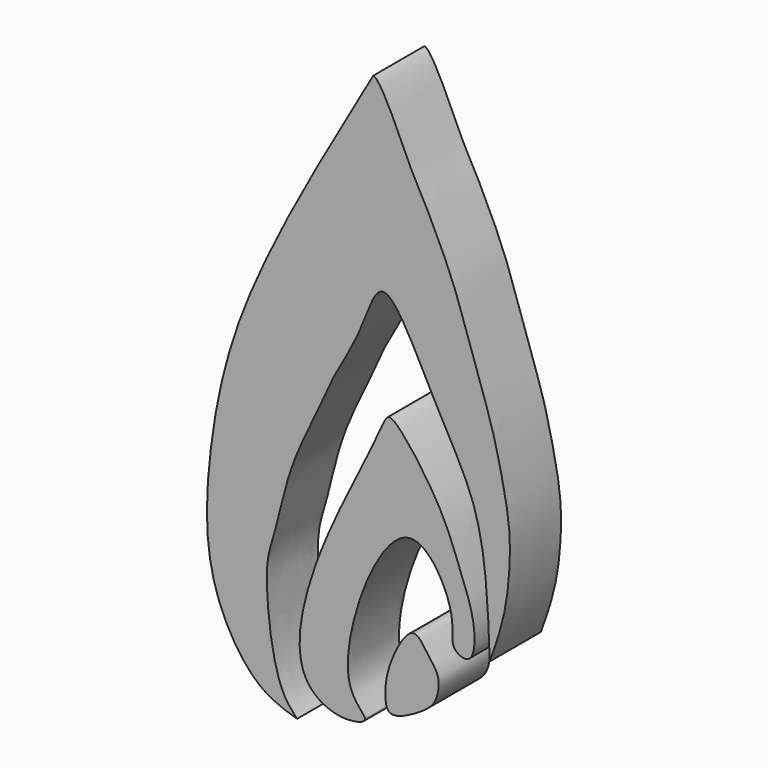
from build123d import *

# Parameters (mm, degrees)
F1_DEPTH = 5


with BuildPart() as f1:
    # F0 (on Front) → F1 (new body)
    with BuildSketch(Plane.XZ):
        with BuildLine():
            add(Edge.make_bspline(
                [(-105.4228618741, -73.764488101), (-104.9720153162, -72.4983220416), (-104.0574418421, -69.9298164366), (-103.7450795659, -65.4076443677), (-104.0495589113, -62.5091065922), (-105.1771436816, -57.5297420009), (-106.2078793726, -54.8663661927), (-107.7755364862, -49.8754492667), (-108.8688401149, -47.1841057708), (-110.6168271049, -43.5524500919), (-111.62611511, -41.9903693861), (-113.8685189613, -36.5783802892), (-114.5240738988, -36.4063158631)],
                knots=[0, 0, 0, 0, 0.097221926, 0.1972214221, 0.2811811309, 0.3867547967, 0.4713562654, 0.5783695765, 0.6638866449, 0.7549950363, 0.8316220038, 0.9471781006, 0.9471781006, 0.9471781006, 0.9471781006], degree=3))
            add(Edge.make_bspline(
                [(-114.5240738988, -36.4063158631), (-114.7269682487, -36.7572496397), (-114.9298625986, -37.1081834162), (-115.1325179437, -37.4589500701)],
                knots=[0, 0, 0, 0, 0.0156360714, 0.0156360714, 0.0156360714, 0.0156360714], degree=3))
            add(Edge.make_bspline(
                [(-115.1325179437, -37.4589500701), (-118.8278130804, -43.8549635046), (-125.1865428068, -55.0051584165), (-127.4508253004, -65.8915561631), (-127.8573967147, -75.1371395411), (-124.0045712011, -81.5315379844), (-121.5128398626, -82.2928489217), (-120.4813197255, -82.6080143452)],
                knots=[0.0156360714, 0.0156360714, 0.0156360714, 0.0156360714, 0.3007501834, 0.5170326194, 0.711433254, 0.8805399263, 1, 1, 1, 1], degree=3))
            add(Edge.make_bspline(
                [(-120.4813197255, -82.6080143452), (-120.8464813091, -82.2203384476), (-121.7028402199, -81.3111800794), (-122.4968363975, -78.2500008073), (-122.8052723026, -75.3230211512), (-122.9431829015, -72.392670907), (-122.0471866402, -69.96956257), (-121.1204364685, -65.2403090257), (-118.6954861092, -60.6496198019), (-117.6679719932, -57.9752277313), (-115.4054960497, -54.503914819), (-113.8138143648, -48.7243475864), (-109.7248872626, -57.5977885356), (-106.4442182198, -62.8254920807), (-105.6049122532, -68.5668422539), (-105.4830124507, -72.0471536129), (-105.4228618741, -73.764488101)],
                knots=[0, 0, 0, 0, 0.0463262487, 0.1086420305, 0.1709598951, 0.2303453141, 0.2868068168, 0.3651248225, 0.4459793564, 0.5056885894, 0.5810475592, 0.6474450462, 0.7410893883, 0.8358304767, 0.9189917352, 1, 1, 1, 1], degree=3))
        make_face()
    extrude(amount=F1_DEPTH)


with BuildPart() as f1b:
    # F0 (on Front) → F1, piece 2 (new body)
    with BuildSketch(Plane.XZ):
        with BuildLine():
            add(Edge.make_bspline(
                [(-115.1773631573, -80.9382647276), (-115.0862994268, -80.5906138955), (-118.3352531135, -79.0648517893), (-112.5079617621, -62.8205407027), (-107.7831889509, -71.5425826012), (-108.6933822969, -73.7795209393), (-106.6480920979, -74.6495762856), (-106.4500299967, -71.3159179051), (-107.9207375816, -67.8809899461), (-109.1576088032, -64.1695408884), (-113.0228017514, -59.0342848903), (-113.6890803845, -59.8518891396), (-114.6908981928, -62.2491115017), (-117.4516534335, -67.4652793934), (-120.2857541482, -74.352576208), (-120.5257960022, -79.8993011525), (-117.2922705657, -81.6956171893), (-115.2544363767, -81.2325044727), (-115.1773631573, -80.9382647276)],
                knots=[0, 0, 0, 0, 0.0519368214, 0.1648633474, 0.2398039114, 0.289002868, 0.3235950454, 0.3747709492, 0.4380198989, 0.5067325098, 0.5832728755, 0.6058058006, 0.655842015, 0.7355562409, 0.8257708994, 0.8976817395, 0.956042455, 1, 1, 1, 1], degree=3))
        make_face()
    extrude(amount=F1_DEPTH)


with BuildPart() as f1c:
    # F0 (on Front) → F1, piece 3 (new body)
    with BuildSketch(Plane.XZ):
        with BuildLine():
            add(Edge.make_bspline(
                [(-110.6908842921, -78.8783729076), (-110.1412845553, -78.5058046456), (-109.5654383639, -77.9540046679), (-109.2208612166, -76.0707707448), (-110.2625827159, -74.9438546276), (-111.4937326918, -72.8359182274), (-113.4164079346, -76.522242616), (-113.6325367483, -78.3984235871), (-113.4792841535, -80.5288131123), (-111.4243122159, -79.3755564916), (-110.6908842921, -78.8783729076)],
                knots=[0, 0, 0, 0, 0.1104867928, 0.2251655889, 0.3400926077, 0.4523545147, 0.6122100848, 0.7493833398, 0.8525579734, 1, 1, 1, 1], degree=3))
        make_face()
    extrude(amount=F1_DEPTH)


solid = Compound([f1.part, f1b.part, f1c.part])
